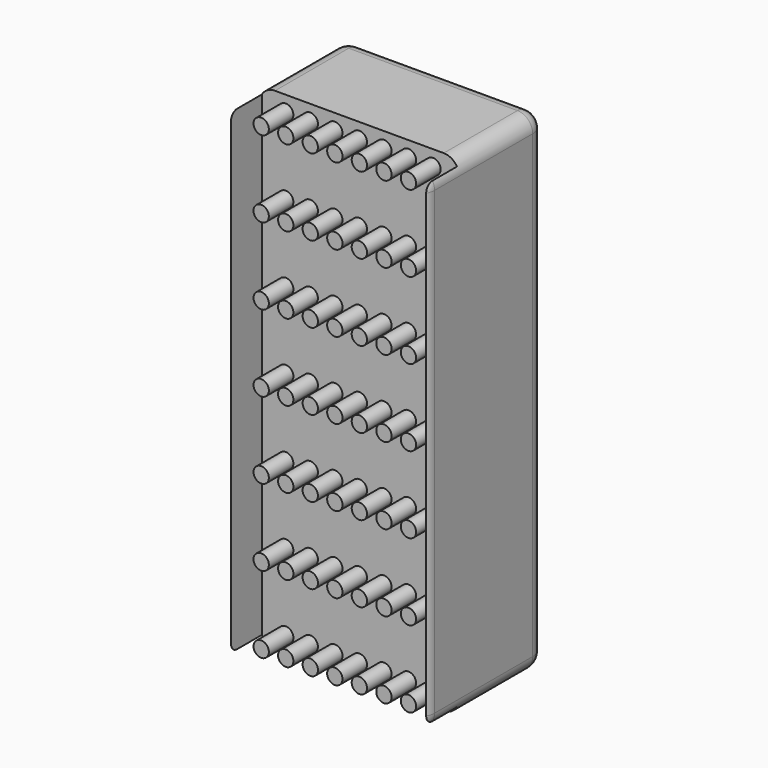
from build123d import *

# Parameters (mm, degrees)
F0_W     = 65
F0_H     = 160
F1_DEPTH = 50
F2_R     = 5
F3_W     = 63.614636
F3_H     = 163.49268
F4_DEPTH = 15
F5_R     = 2.5
F6_DEPTH = 10


with BuildPart() as f1:
    # F0 (on Front) → F1 (new body)
    with BuildSketch(Plane.XZ):
        Rectangle(F0_W, F0_H)
    extrude(amount=F1_DEPTH)

    # F2
    f2_edges = [f1.edges().sort_by_distance(p)[0] for p in [
        (32.5, -25, 80),
        (-32.5, -25, 80),
        (0, 0, 80),
        (32.5, 0, 0),
        (32.5, -50, 0),
        (-32.5, -50, 0),
        (0, -50, -80),
        (32.5, -25, -80),
        (-32.5, -25, -80),
        (0, 0, -80),
        (-32.5, 0, 0),
        (0, -50, 80),
    ]]
    fillet(f2_edges, radius=F2_R)

    # F3 (on face) → F4 (cut)
    with BuildSketch(Plane.XZ.offset(50)):
        Rectangle(F3_W, F3_H)
    extrude(amount=-F4_DEPTH, mode=Mode.SUBTRACT)

    # F5 (on face) → F6 (join)
    with BuildSketch(Plane.XZ.offset(35)):
        Circle(F5_R)
        with Locations((0, 25)):
            Circle(F5_R)
        with Locations((0, 50)):
            Circle(F5_R)
        with Locations((0, 75)):
            Circle(F5_R)
        with Locations((8, 0)):
            Circle(F5_R)
        with Locations((8, 25)):
            Circle(F5_R)
        with Locations((8, 50)):
            Circle(F5_R)
        with Locations((8, 75)):
            Circle(F5_R)
        with Locations((16, 0)):
            Circle(F5_R)
        with Locations((16, 25)):
            Circle(F5_R)
        with Locations((16, 50)):
            Circle(F5_R)
        with Locations((16, 75)):
            Circle(F5_R)
        with Locations((24, 0)):
            Circle(F5_R)
        with Locations((24, 25)):
            Circle(F5_R)
        with Locations((24, 50)):
            Circle(F5_R)
        with Locations((24, 75)):
            Circle(F5_R)
        with Locations((-8, 0)):
            Circle(F5_R)
        with Locations((-24, 0)):
            Circle(F5_R)
        with Locations((-24, 25)):
            Circle(F5_R)
        with Locations((-16, 0)):
            Circle(F5_R)
        with Locations((-24, 50)):
            Circle(F5_R)
        with Locations((-16, 50)):
            Circle(F5_R)
        with Locations((-24, 75)):
            Circle(F5_R)
        with Locations((-8, 75)):
            Circle(F5_R)
        with Locations((-16, 25)):
            Circle(F5_R)
        with Locations((-8, 50)):
            Circle(F5_R)
        with Locations((-16, 75)):
            Circle(F5_R)
        with Locations((-8, 25)):
            Circle(F5_R)
        with Locations((0, -25)):
            Circle(F5_R)
        with Locations((0, -50)):
            Circle(F5_R)
        with Locations((0, -75)):
            Circle(F5_R)
        with Locations((16, -25)):
            Circle(F5_R)
        with Locations((16, -50)):
            Circle(F5_R)
        with Locations((-16, -25)):
            Circle(F5_R)
        with Locations((-8, -50)):
            Circle(F5_R)
        with Locations((24, -25)):
            Circle(F5_R)
        with Locations((-16, -75)):
            Circle(F5_R)
        with Locations((-24, -75)):
            Circle(F5_R)
        with Locations((8, -75)):
            Circle(F5_R)
        with Locations((24, -50)):
            Circle(F5_R)
        with Locations((-8, -25)):
            Circle(F5_R)
        with Locations((-24, -50)):
            Circle(F5_R)
        with Locations((8, -50)):
            Circle(F5_R)
        with Locations((24, -75)):
            Circle(F5_R)
        with Locations((-16, -50)):
            Circle(F5_R)
        with Locations((8, -25)):
            Circle(F5_R)
        with Locations((-24, -25)):
            Circle(F5_R)
        with Locations((-8, -75)):
            Circle(F5_R)
        with Locations((16, -75)):
            Circle(F5_R)
    extrude(amount=F6_DEPTH)


solid = f1.part
